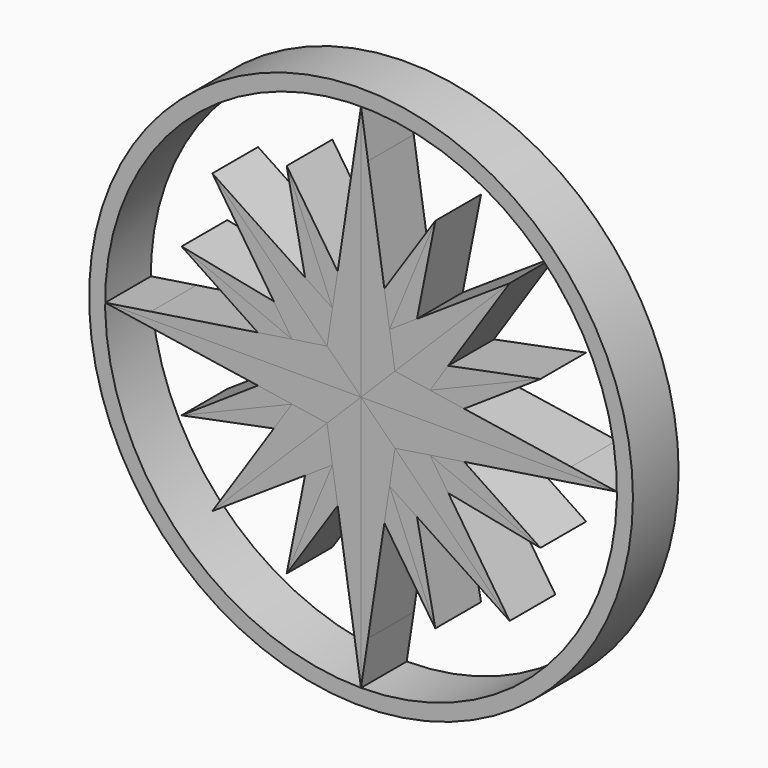
from build123d import *

# Parameters (mm, degrees)
F1_DEPTH = 25
F0_R     = 119
F2_DEPTH = 25


with BuildPart() as f1:
    # F0 (on Front) → F1 (new body)
    with BuildSketch(Plane.XZ):
        Polygon((0, -112), (0, 0), (-14.8492424049, -14.8492424049), (-12.5046251831, -30.1888357094), (-10.2192130658, -45.1410812557), (-3.0647529698, -91.9489384889), align=None)
    extrude(amount=F1_DEPTH)


with BuildPart() as f1b:
    # F0 (on Front) → F1, piece 2 (new body)
    with BuildSketch(Plane.XZ):
        Polygon((-112, 0), (0, 0), (-14.8492424049, 14.8492424049), (-30.1888357094, 12.5046251831), (-45.1410812557, 10.2192130658), (-91.9489384889, 3.0647529698), align=None)
    extrude(amount=F1_DEPTH)


with BuildPart() as f1c:
    # F0 (on Front) → F1, piece 3 (new body)
    with BuildSketch(Plane.XZ):
        Polygon((0, 112), (0, 0), (14.8492424049, 14.8492424049), (12.5046251831, 30.1888357094), (10.2192130658, 45.1410812557), (3.0647529698, 91.9489384889), align=None)
    extrude(amount=F1_DEPTH)


with BuildPart() as f1d:
    # F0 (on Front) → F1, piece 4 (new body)
    with BuildSketch(Plane.XZ):
        Polygon((112, 0), (0, 0), (14.8492424049, -14.8492424049), (30.1888357094, -12.5046251831), (45.1410812557, -10.2192130658), (91.9489384889, -3.0647529698), align=None)
    extrude(amount=F1_DEPTH)


with BuildPart() as f1e:
    # F0 (on Front) → F1, piece 5 (new body)
    with BuildSketch(Plane.XZ):
        Polygon((65.0538238692, -65.0538238692), (14.8492424049, -14.8492424049), (12.5046251831, -30.1888357094), (24.4941670021, -38.1435761053), align=None)
    extrude(amount=F1_DEPTH)


with BuildPart() as f1f:
    # F0 (on Front) → F1, piece 6 (new body)
    with BuildSketch(Plane.XZ):
        Polygon((-65.0538238692, -65.0538238692), (-14.8492424049, -14.8492424049), (-30.1888357094, -12.5046251831), (-38.1435761053, -24.4941670021), align=None)
    extrude(amount=F1_DEPTH)


with BuildPart() as f1g:
    # F0 (on Front) → F1, piece 7 (new body)
    with BuildSketch(Plane.XZ):
        Polygon((-65.0538238692, 65.0538238692), (-14.8492424049, 14.8492424049), (-12.5046251831, 30.1888357094), (-24.4941670021, 38.1435761053), align=None)
    extrude(amount=F1_DEPTH)


with BuildPart() as f1h:
    # F0 (on Front) → F1, piece 8 (new body)
    with BuildSketch(Plane.XZ):
        Polygon((65.0538238692, 65.0538238692), (14.8492424049, 14.8492424049), (30.1888357094, 12.5046251831), (38.1435761053, 24.4941670021), align=None)
    extrude(amount=F1_DEPTH)


with BuildPart() as f1i:
    # F0 (on Front) → F1, piece 9 (new body)
    with BuildSketch(Plane.XZ):
        Polygon((32.5269119346, -78.5269119346), (12.5046251831, -30.1888357094), (10.2192130658, -45.1410812557), align=None)
    extrude(amount=F1_DEPTH)


with BuildPart() as f1j:
    # F0 (on Front) → F1, piece 10 (new body)
    with BuildSketch(Plane.XZ):
        Polygon((-32.5269119346, -78.5269119346), (-12.5046251831, -30.1888357094), (-24.4941670021, -38.1435761053), align=None)
    extrude(amount=F1_DEPTH)


with BuildPart() as f1k:
    # F0 (on Front) → F1, piece 11 (new body)
    with BuildSketch(Plane.XZ):
        Polygon((-78.5269119346, -32.5269119346), (-30.1888357094, -12.5046251831), (-45.1410812557, -10.2192130658), align=None)
    extrude(amount=F1_DEPTH)


with BuildPart() as f1l:
    # F0 (on Front) → F1, piece 12 (new body)
    with BuildSketch(Plane.XZ):
        Polygon((-78.5269119346, 32.5269119346), (-30.1888357094, 12.5046251831), (-38.1435761053, 24.4941670021), align=None)
    extrude(amount=F1_DEPTH)


with BuildPart() as f1m:
    # F0 (on Front) → F1, piece 13 (new body)
    with BuildSketch(Plane.XZ):
        Polygon((-32.5269119346, 78.5269119346), (-12.5046251831, 30.1888357094), (-10.2192130658, 45.1410812557), align=None)
    extrude(amount=F1_DEPTH)


with BuildPart() as f1n:
    # F0 (on Front) → F1, piece 14 (new body)
    with BuildSketch(Plane.XZ):
        Polygon((32.5269119346, 78.5269119346), (12.5046251831, 30.1888357094), (24.4941670021, 38.1435761053), align=None)
    extrude(amount=F1_DEPTH)


with BuildPart() as f1o:
    # F0 (on Front) → F1, piece 15 (new body)
    with BuildSketch(Plane.XZ):
        Polygon((78.5269119346, 32.5269119346), (30.1888357094, 12.5046251831), (45.1410812557, 10.2192130658), align=None)
    extrude(amount=F1_DEPTH)


with BuildPart() as f1p:
    # F0 (on Front) → F1, piece 16 (new body)
    with BuildSketch(Plane.XZ):
        Polygon((78.5269119346, -32.5269119346), (30.1888357094, -12.5046251831), (38.1435761053, -24.4941670021), align=None)
    extrude(amount=F1_DEPTH)


with BuildPart() as f1q:
    # F0 (on Front) → F1, piece 17 (new body)
    with BuildSketch(Plane.XZ):
        Circle(F0_R)
        with BuildLine():
            ThreePointArc((-112, 0), (-79.1959594929, 79.1959594929), (0, 112))
            ThreePointArc((0, 112), (79.1959594929, 79.1959594929), (112, 0))
            ThreePointArc((112, 0), (79.1959594929, -79.1959594929), (0, -112))
            ThreePointArc((0, -112), (-79.1959594929, -79.1959594929), (-112, 0))
        make_face(mode=Mode.SUBTRACT)
    extrude(amount=F1_DEPTH)


with BuildPart() as f2:
    # F0 (on Front) → F2 (new body)
    with BuildSketch(Plane.XZ):
        Polygon((-30.1888357094, 12.5046251831), (-14.8492424049, 14.8492424049), (-65.0538238692, 65.0538238692), (-38.1435761053, 24.4941670021), align=None)
    extrude(amount=F2_DEPTH)


with BuildPart() as f2b:
    # F0 (on Front) → F2, piece 2 (new body)
    with BuildSketch(Plane.XZ):
        Polygon((-24.4941670021, 38.1435761053), (-12.5046251831, 30.1888357094), (-32.5269119346, 78.5269119346), align=None)
    extrude(amount=F2_DEPTH)


with BuildPart() as f2c:
    # F0 (on Front) → F2, piece 3 (new body)
    with BuildSketch(Plane.XZ):
        Polygon((-14.8492424049, 14.8492424049), (0, 0), (0, 112), (-3.0647529698, 91.9489384889), (-10.2192130658, 45.1410812557), (-12.5046251831, 30.1888357094), align=None)
    extrude(amount=F2_DEPTH)


with BuildPart() as f2d:
    # F0 (on Front) → F2, piece 4 (new body)
    with BuildSketch(Plane.XZ):
        Polygon((10.2192130658, 45.1410812557), (12.5046251831, 30.1888357094), (32.5269119346, 78.5269119346), align=None)
    extrude(amount=F2_DEPTH)


with BuildPart() as f2e:
    # F0 (on Front) → F2, piece 5 (new body)
    with BuildSketch(Plane.XZ):
        Polygon((12.5046251831, 30.1888357094), (14.8492424049, 14.8492424049), (65.0538238692, 65.0538238692), (24.4941670021, 38.1435761053), align=None)
    extrude(amount=F2_DEPTH)


with BuildPart() as f2f:
    # F0 (on Front) → F2, piece 6 (new body)
    with BuildSketch(Plane.XZ):
        Polygon((14.8492424049, 14.8492424049), (0, 0), (112, 0), (91.9489384889, 3.0647529698), (45.1410812557, 10.2192130658), (30.1888357094, 12.5046251831), align=None)
    extrude(amount=F2_DEPTH)


with BuildPart() as f2g:
    # F0 (on Front) → F2, piece 7 (new body)
    with BuildSketch(Plane.XZ):
        Polygon((38.1435761053, 24.4941670021), (30.1888357094, 12.5046251831), (78.5269119346, 32.5269119346), align=None)
    extrude(amount=F2_DEPTH)


with BuildPart() as f2h:
    # F0 (on Front) → F2, piece 8 (new body)
    with BuildSketch(Plane.XZ):
        Polygon((45.1410812557, -10.2192130658), (30.1888357094, -12.5046251831), (78.5269119346, -32.5269119346), align=None)
    extrude(amount=F2_DEPTH)


with BuildPart() as f2i:
    # F0 (on Front) → F2, piece 9 (new body)
    with BuildSketch(Plane.XZ):
        Polygon((30.1888357094, -12.5046251831), (14.8492424049, -14.8492424049), (65.0538238692, -65.0538238692), (38.1435761053, -24.4941670021), align=None)
    extrude(amount=F2_DEPTH)


with BuildPart() as f2j:
    # F0 (on Front) → F2, piece 10 (new body)
    with BuildSketch(Plane.XZ):
        Polygon((24.4941670021, -38.1435761053), (12.5046251831, -30.1888357094), (32.5269119346, -78.5269119346), align=None)
    extrude(amount=F2_DEPTH)


with BuildPart() as f2k:
    # F0 (on Front) → F2, piece 11 (new body)
    with BuildSketch(Plane.XZ):
        Polygon((14.8492424049, -14.8492424049), (0, 0), (0, -112), (3.0647529698, -91.9489384889), (10.2192130658, -45.1410812557), (12.5046251831, -30.1888357094), align=None)
    extrude(amount=F2_DEPTH)


with BuildPart() as f2l:
    # F0 (on Front) → F2, piece 12 (new body)
    with BuildSketch(Plane.XZ):
        Polygon((-10.2192130658, -45.1410812557), (-12.5046251831, -30.1888357094), (-32.5269119346, -78.5269119346), align=None)
    extrude(amount=F2_DEPTH)


with BuildPart() as f2m:
    # F0 (on Front) → F2, piece 13 (new body)
    with BuildSketch(Plane.XZ):
        Polygon((-12.5046251831, -30.1888357094), (-14.8492424049, -14.8492424049), (-65.0538238692, -65.0538238692), (-24.4941670021, -38.1435761053), align=None)
    extrude(amount=F2_DEPTH)


with BuildPart() as f2n:
    # F0 (on Front) → F2, piece 14 (new body)
    with BuildSketch(Plane.XZ):
        Polygon((-38.1435761053, -24.4941670021), (-30.1888357094, -12.5046251831), (-78.5269119346, -32.5269119346), align=None)
    extrude(amount=F2_DEPTH)


with BuildPart() as f2o:
    # F0 (on Front) → F2, piece 15 (new body)
    with BuildSketch(Plane.XZ):
        Polygon((-14.8492424049, -14.8492424049), (0, 0), (-112, 0), (-91.9489384889, -3.0647529698), (-45.1410812557, -10.2192130658), (-30.1888357094, -12.5046251831), align=None)
    extrude(amount=F2_DEPTH)


with BuildPart() as f2p:
    # F0 (on Front) → F2, piece 16 (new body)
    with BuildSketch(Plane.XZ):
        Polygon((-45.1410812557, 10.2192130658), (-30.1888357094, 12.5046251831), (-78.5269119346, 32.5269119346), align=None)
    extrude(amount=F2_DEPTH)


solid = Compound([f1.part, f1b.part, f1c.part, f1d.part, f1e.part, f1f.part, f1g.part, f1h.part, f1i.part, f1j.part, f1k.part, f1l.part, f1m.part, f1n.part, f1o.part, f1p.part, f1q.part, f2.part, f2b.part, f2c.part, f2d.part, f2e.part, f2f.part, f2g.part, f2h.part, f2i.part, f2j.part, f2k.part, f2l.part, f2m.part, f2n.part, f2o.part, f2p.part])
